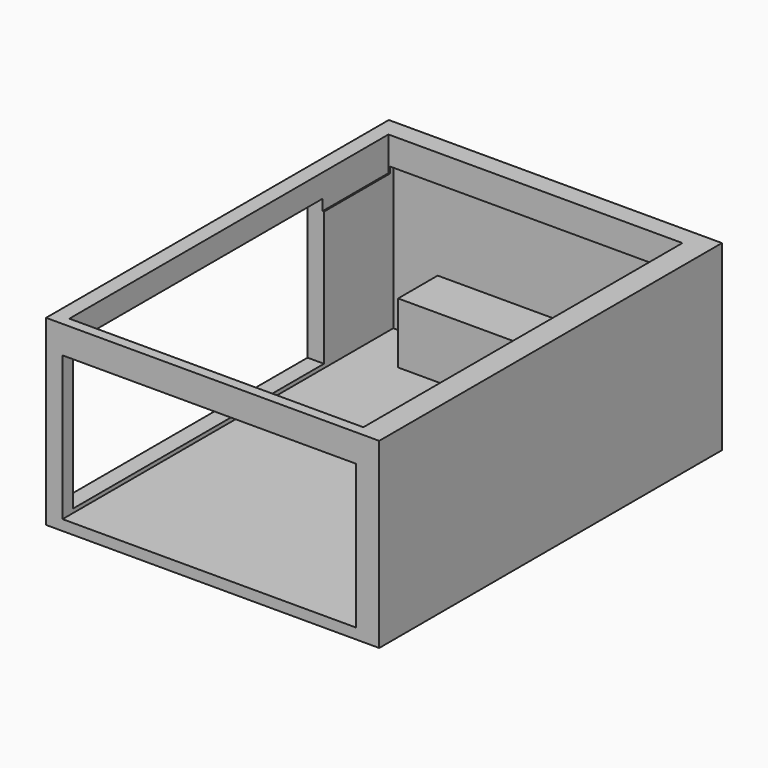
from build123d import *

# Parameters (mm, degrees)
F0_W     = 139.181651175
F0_H     = 178.9838671684
F1_DEPTH = 76.2
F2_W     = 122.5202530622
F2_H     = 60.2431138977
F3_DEPTH = 172.72
F4_W     = 131.1423294246
F4_H     = 60.5337903835
F5_DEPTH = 25.4
F7_DEPTH = 25.4
F8_W     = 122.8211522102
F8_H     = 166.64852947
F9_DEPTH = 14.224


with BuildPart() as f1:
    # F0 (on Top) → F1 (new body)
    with BuildSketch(Plane.XY):
        with Locations((-2.3464225233, 20.7241773605)):
            Rectangle(F0_W, F0_H)
    extrude(amount=F1_DEPTH)

    # F2 (on face) → F3 (cut)
    with BuildSketch(Plane.XZ.offset(68.7677562237)):
        with Locations((-3.7967562675, 34.5050995238)):
            Rectangle(F2_W, F2_H)
    extrude(amount=-F3_DEPTH, mode=Mode.SUBTRACT)

    # F4 (on face) → F5 (cut)
    with BuildSketch(Plane(origin=(-71.9372481108, 0, 0), x_dir=(0, -1, 0), z_dir=(-1, 0, 0))):
        with Locations((-2.1996553987, 36.2956381869)):
            Rectangle(F4_W, F4_H)
    extrude(amount=-F5_DEPTH, mode=Mode.SUBTRACT)

    # F6 (on face) → F7 (join)
    with BuildSketch(Plane.XY.offset(4.3835425749)):
        Polygon((57.4633702636, 103.9522437763), (-46.4984178543, 103.9522437763), (-46.4984178543, 83.275783987), (38.8480201364, 83.275783987), (38.8480201364, 16.3331480634), (57.4633702636, 16.3331480634), align=None)
    extrude(amount=F7_DEPTH)

    # F8 (on face) → F9 (cut)
    with BuildSketch(Plane.XY.offset(76.2)):
        with Locations((-4.2247846723, 18.8339464366)):
            Rectangle(F8_W, F8_H)
    extrude(amount=-F9_DEPTH, mode=Mode.SUBTRACT)


solid = f1.part
